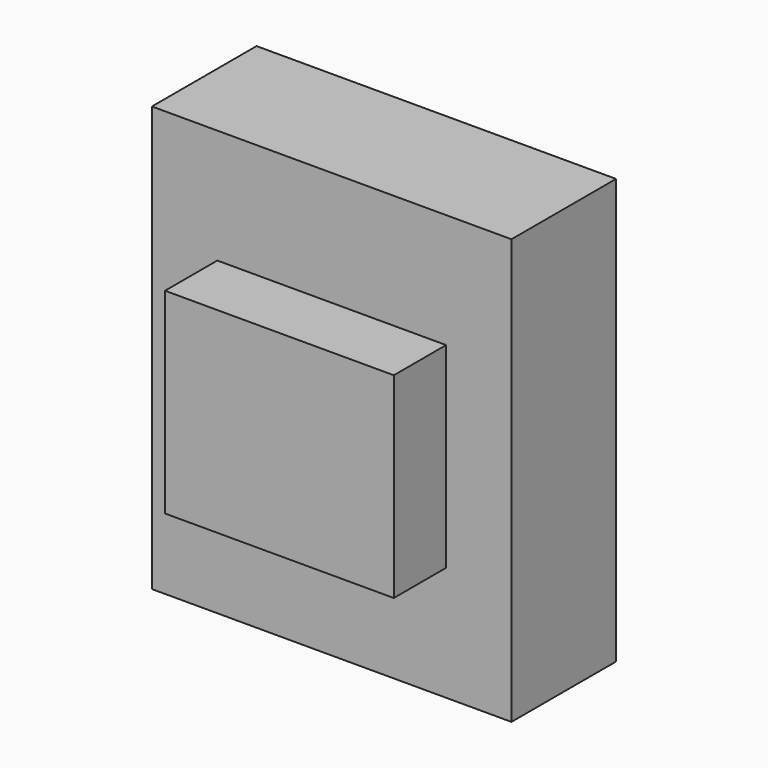
from build123d import *

# Parameters (mm, degrees)
F0_W     = 279.4
F0_H     = 330.2
F1_DEPTH = 50.8
F2_W     = 177.8
F2_H     = 152.4
F3_DEPTH = 101.6


with BuildPart() as f1:
    # F0 (on Front) → F1 (new body, symmetric)
    with BuildSketch(Plane.XZ):
        Rectangle(F0_W, F0_H)
    extrude(amount=F1_DEPTH, both=True)


with BuildPart() as f3:
    # F2 (on Front) → F3 (new body, symmetric)
    with BuildSketch(Plane.XZ):
        Rectangle(F2_W, F2_H)
    extrude(amount=F3_DEPTH, both=True)


solid = Compound([f1.part, f3.part])
